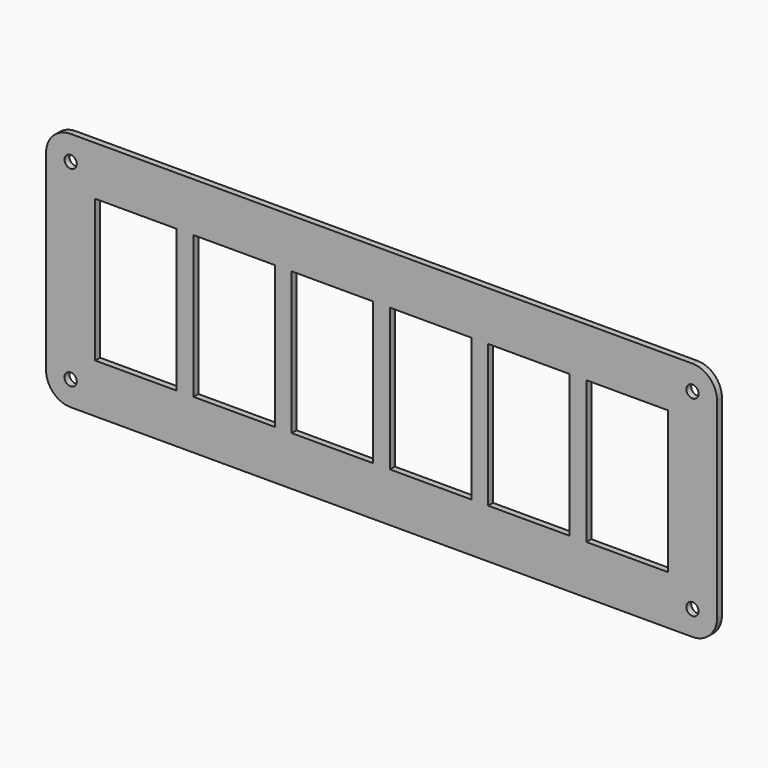
from build123d import *

# Parameters (mm, degrees)
F0_R     = 1.5875
F0_W     = 21.082
F0_H     = 36.83
F1_DEPTH = 1.5875


with BuildPart() as f1:
    # F0 (on Front) → F1 (new body)
    with BuildSketch(Plane.XZ):
        with BuildLine():
            Line((92.487544, 59.78945), (-68.294456, 59.78945))
            ThreePointArc((-68.294456, 59.78945), (-72.784584, 57.929578), (-74.644456, 53.43945))
            Line((-74.644456, 53.43945), (-74.644456, 3.90945))
            ThreePointArc((-74.644456, 3.90945), (-72.784584, -0.580678), (-68.294456, -2.44055))
            Line((-68.294456, -2.44055), (92.487544, -2.44055))
            ThreePointArc((92.487544, -2.44055), (96.977672, -0.580678), (98.837544, 3.90945))
            Line((98.837544, 3.90945), (98.837544, 53.43945))
            ThreePointArc((98.837544, 53.43945), (96.977672, 57.929578), (92.487544, 59.78945))
        make_face()
        with Locations((-68.294456, 3.90945)):
            Circle(F0_R, mode=Mode.SUBTRACT)
        with Locations((92.487544, 3.90945)):
            Circle(F0_R, mode=Mode.SUBTRACT)
        with Locations((-51.403456, 28.67445)):
            Rectangle(F0_W, F0_H, mode=Mode.SUBTRACT)
        with Locations((-26.003456, 28.67445)):
            Rectangle(F0_W, F0_H, mode=Mode.SUBTRACT)
        with Locations((-0.603456, 28.67445)):
            Rectangle(F0_W, F0_H, mode=Mode.SUBTRACT)
        with Locations((-68.294456, 53.43945)):
            Circle(F0_R, mode=Mode.SUBTRACT)
        with Locations((24.796544, 28.67445)):
            Rectangle(F0_W, F0_H, mode=Mode.SUBTRACT)
        with Locations((50.196544, 28.67445)):
            Rectangle(F0_W, F0_H, mode=Mode.SUBTRACT)
        with Locations((75.596544, 28.67445)):
            Rectangle(F0_W, F0_H, mode=Mode.SUBTRACT)
        with Locations((92.487544, 53.43945)):
            Circle(F0_R, mode=Mode.SUBTRACT)
    extrude(amount=F1_DEPTH)


solid = f1.part
